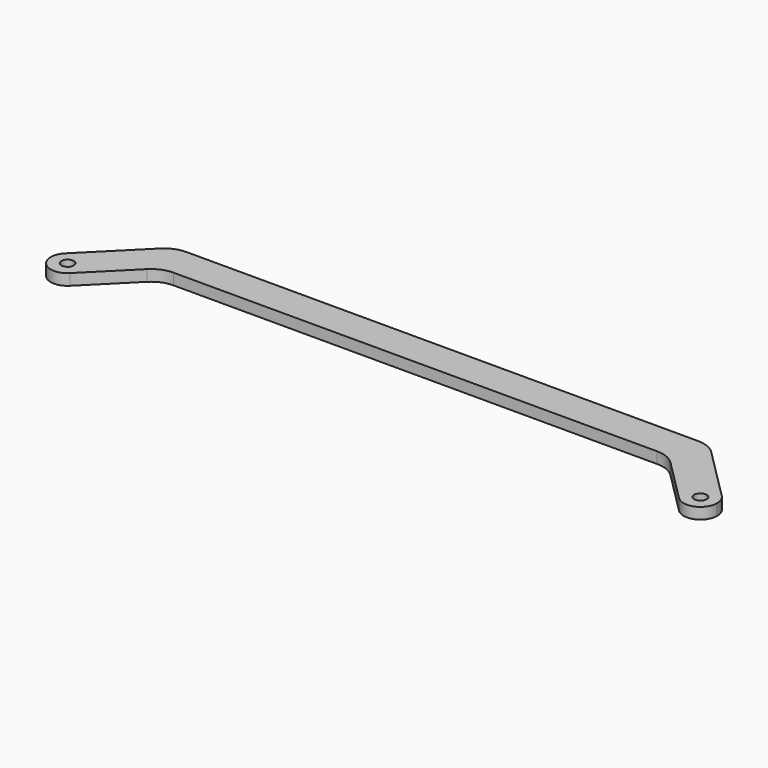
from build123d import *

# Parameters (mm, degrees)
F0_R     = 1.1
F1_DEPTH = 2


with BuildPart() as f1:
    # F0 (on Top) → F1 (new body)
    with BuildSketch(Plane.XY):
        with BuildLine():
            ThreePointArc((54.37868, -2.12132), (57.64805, -2.771639), (59.5, 0))
            ThreePointArc((59.5, 0), (59.271639, 1.14805), (58.62132, 2.12132))
            ThreePointArc((58.62132, 2.12132), (54.37868, 2.12132), (54.37868, -2.12132))
        make_face()
        with Locations((56.5, 0)):
            Circle(F0_R, mode=Mode.SUBTRACT)
        with BuildLine():
            ThreePointArc((54.37868, -2.12132), (54.37868, 2.12132), (58.62132, 2.12132))
            Line((58.62132, 2.12132), (49.207107, 11.535534))
            ThreePointArc((49.207107, 11.535534), (47.58499, 12.619398), (45.671573, 13))
            Line((45.671573, 13), (0, 13))
            Line((0, 13), (0, 7))
            Line((0, 7), (43.186292, 7))
            ThreePointArc((43.186292, 7), (45.099709, 6.619398), (46.721825, 5.535534))
            Line((46.721825, 5.535534), (54.37868, -2.12132))
        make_face()
    extrude(amount=F1_DEPTH)

    # F2: F1 across face


with BuildPart() as f1_1:
    add(f1.part)
    add(f1.part.mirror(Plane(origin=(0, 10, 1), x_dir=(0, -1, 0), z_dir=(-1, 0, 0))))


solid = f1_1.part
